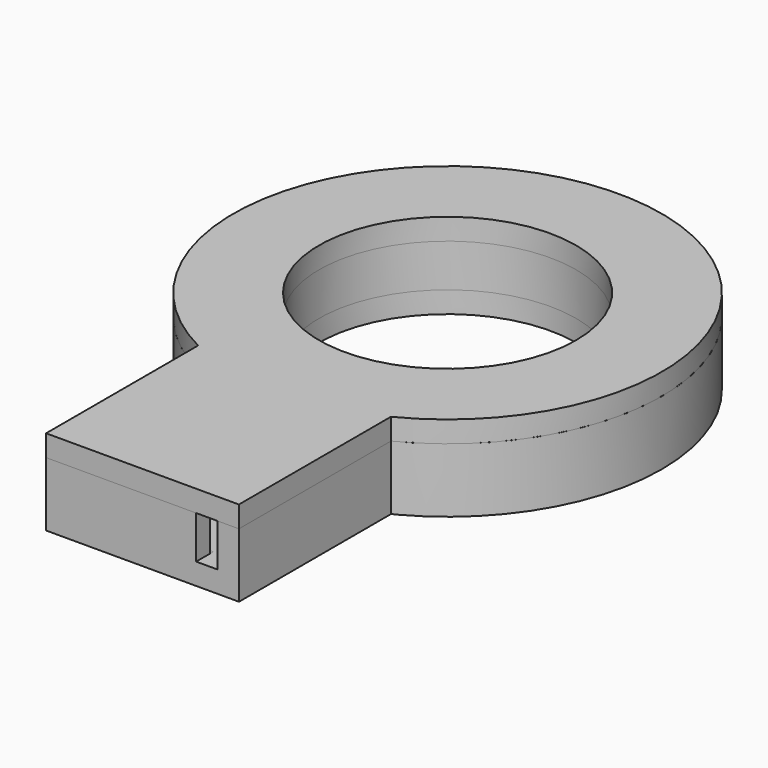
from build123d import *

# Parameters (mm, degrees)
SKETCH_R             = 20
PAD_DEPTH            = 30
SKETCH001_R          = 18
POCKET_DEPTH         = 40
SKETCH002_W          = 40
SKETCH002_H          = 26
POCKET001_DEPTH      = 20.001
POCKET001_DEPTH_BACK = 20.001
SKETCH014_W          = 14
SKETCH014_H          = 7.569522
POCKET010_DEPTH      = 6
SKETCH005_R          = 13
PAD002_DEPTH         = 30
SKETCH006_W          = 40
SKETCH006_H          = 26
POCKET003_DEPTH      = 13.001
POCKET003_DEPTH_BACK = 13.001
SKETCH007_R          = 12
POCKET004_DEPTH      = 6.001
SKETCH003_R          = 18
PAD001_DEPTH         = 30
SKETCH004_W          = 40
SKETCH004_H          = 30
POCKET002_DEPTH      = 18.001
POCKET002_DEPTH_BACK = 18.001
SKETCH008_R          = 12
POCKET005_DEPTH      = 2.001
SKETCH009_W          = 18
SKETCH009_H          = 20
PAD003_DEPTH         = 9
SKETCH010_W          = 14
SKETCH010_H          = 17
POCKET006_DEPTH      = 7
SKETCH011_W          = 40
SKETCH011_H          = 26
POCKET007_DEPTH      = 21
SKETCH012_W          = 14
SKETCH012_H          = 7.424547
POCKET008_DEPTH      = 19
SKETCH013_R          = 18
POCKET009_DEPTH      = 7
SKETCH021_W          = 2
SKETCH021_H          = 8
POCKET015_DEPTH      = 5
SKETCH015_W          = 40
SKETCH015_H          = 26
PAD004_DEPTH         = 36
SKETCH016_W          = 40
SKETCH016_H          = 26
POCKET011_DEPTH      = 36
SKETCH017_R          = 12
POCKET012_DEPTH      = 8.001
POCKET013_DEPTH      = 25
SKETCH019_W          = 20
SKETCH019_H          = 5
POCKET014_DEPTH      = 15
PAD005_DEPTH         = 1.5


with BuildPart() as base_cylinder_external:
    # Sketch → Pad (new body)
    with BuildSketch(Plane.XY):
        Circle(SKETCH_R)
    extrude(amount=PAD_DEPTH)

    # Sketch001 → Pocket (cut)
    with BuildSketch(Plane.XY):
        Circle(SKETCH001_R)
    extrude(amount=POCKET_DEPTH, mode=Mode.SUBTRACT)

    # Sketch002 → Pocket001 (cut, two sides)
    with BuildSketch(Plane.XZ) as pocket001_sk:
        with Locations((0, 19)):
            Rectangle(SKETCH002_W, SKETCH002_H)
    extrude(amount=-POCKET001_DEPTH, mode=Mode.SUBTRACT)
    extrude(pocket001_sk.sketch, amount=POCKET001_DEPTH_BACK, mode=Mode.SUBTRACT)

    # Sketch014 → Pocket010 (cut)
    with BuildSketch(Plane.XZ.offset(22)):
        with Locations((0, 5.784761)):
            Rectangle(SKETCH014_W, SKETCH014_H)
    extrude(amount=-POCKET010_DEPTH, mode=Mode.SUBTRACT)


with BuildPart() as base_cylinder_internal:
    # Sketch005 → Pad002 (new body)
    with BuildSketch(Plane.XY):
        Circle(SKETCH005_R)
    extrude(amount=PAD002_DEPTH)

    # Sketch006 → Pocket003 (cut, two sides)
    with BuildSketch(Plane.XZ) as pocket003_sk:
        with Locations((0, 19)):
            Rectangle(SKETCH006_W, SKETCH006_H)
    extrude(amount=-POCKET003_DEPTH, mode=Mode.SUBTRACT)
    extrude(pocket003_sk.sketch, amount=POCKET003_DEPTH_BACK, mode=Mode.SUBTRACT)

    # Sketch007 → Pocket004 (cut, through all)
    with BuildSketch(Plane.XY):
        Circle(SKETCH007_R)
    extrude(amount=POCKET004_DEPTH, mode=Mode.SUBTRACT)


with BuildPart() as base_cylinder_intermediate:
    # Sketch003 → Pad001 (new body)
    with BuildSketch(Plane.XY):
        Circle(SKETCH003_R)
    extrude(amount=PAD001_DEPTH)

    # Sketch004 → Pocket002 (cut, two sides)
    with BuildSketch(Plane.XZ) as pocket002_sk:
        with Locations((0, 17)):
            Rectangle(SKETCH004_W, SKETCH004_H)
    extrude(amount=-POCKET002_DEPTH, mode=Mode.SUBTRACT)
    extrude(pocket002_sk.sketch, amount=POCKET002_DEPTH_BACK, mode=Mode.SUBTRACT)

    # Sketch008 → Pocket005 (cut, through all)
    with BuildSketch(Plane.XY):
        Circle(SKETCH008_R)
    extrude(amount=POCKET005_DEPTH, mode=Mode.SUBTRACT)


with BuildPart() as base_box:
    # Sketch009 → Pad003 (new body)
    with BuildSketch(Plane.XY):
        with Locations((0, -25.588457)):
            Rectangle(SKETCH009_W, SKETCH009_H)
    extrude(amount=PAD003_DEPTH)

    # Sketch010 → Pocket006 (cut)
    with BuildSketch(Plane.XY.offset(2)):
        with Locations((0, -25.083124)):
            Rectangle(SKETCH010_W, SKETCH010_H)
    extrude(amount=POCKET006_DEPTH, mode=Mode.SUBTRACT)

    # Sketch011 → Pocket007 (cut)
    with BuildSketch(Plane.XZ.offset(15)):
        with Locations((0, 19)):
            Rectangle(SKETCH011_W, SKETCH011_H)
    extrude(amount=POCKET007_DEPTH, mode=Mode.SUBTRACT)

    # Sketch012 → Pocket008 (cut)
    with BuildSketch(Plane.XZ.offset(15)):
        with Locations((0, 5.712274)):
            Rectangle(SKETCH012_W, SKETCH012_H)
    extrude(amount=POCKET008_DEPTH, mode=Mode.SUBTRACT)

    # Sketch013 → Pocket009 (cut)
    with BuildSketch(Plane.XY.offset(9)):
        Circle(SKETCH013_R)
    extrude(amount=-POCKET009_DEPTH, mode=Mode.SUBTRACT)

    # Sketch021 → Pocket015 (cut)
    with BuildSketch(Plane.XZ.offset(37)):
        with Locations((6, 6)):
            Rectangle(SKETCH021_W, SKETCH021_H)
    extrude(amount=-POCKET015_DEPTH, mode=Mode.SUBTRACT)


with BuildPart() as top:
    # Sketch015 → Pad004 (new body, symmetric)
    with BuildSketch(Plane.XZ):
        with Locations((0, 19)):
            Rectangle(SKETCH015_W, SKETCH015_H)
    extrude(amount=PAD004_DEPTH, both=True)

    # Sketch016 → Pocket011 (cut, symmetric)
    with BuildSketch(Plane.XZ):
        with Locations((0, 21)):
            Rectangle(SKETCH016_W, SKETCH016_H)
    extrude(amount=POCKET011_DEPTH, both=True, mode=Mode.SUBTRACT)

    # Sketch017 → Pocket012 (cut, through all)
    with BuildSketch(Plane.XY):
        Circle(SKETCH017_R)
    extrude(amount=POCKET012_DEPTH, mode=Mode.SUBTRACT)

    # Sketch018 → Pocket013 (cut)
    with BuildSketch(Plane.XY):
        with BuildLine():
            Line((9, -38.955163), (9, -17.860571))
            ThreePointArc((9, -17.860571), (0, 20), (-9, -17.860571))
            Line((-9, -38.955163), (-9, -17.860571))
            Line((-9, -38.955163), (-27, -38.955163))
            Line((-27, -38.955163), (-27, 41.044837))
            Line((-27, 41.044837), (27, 41.044837))
            Line((27, 41.044837), (27, -38.955163))
            Line((27, -38.955163), (9, -38.955163))
        make_face()
    extrude(amount=POCKET013_DEPTH, mode=Mode.SUBTRACT)

    # Sketch019 → Pocket014 (cut)
    with BuildSketch(Plane.XY):
        with Locations((0, -38.1)):
            Rectangle(SKETCH019_W, SKETCH019_H)
    extrude(amount=POCKET014_DEPTH, mode=Mode.SUBTRACT)

    # Sketch020 → Pad005 (join)
    with BuildSketch(Plane.XY.offset(7)):
        Polygon((-6.8, -20.975668), (-6.8, -33.5), (6.8, -33.5), (6.8, -20.975668), (5.8, -20.975668), (5.8, -32.5), (-5.8, -32.5), (-5.8, -20.975668), align=None)
    extrude(amount=-PAD005_DEPTH)


solid = Compound([base_cylinder_external.part, base_cylinder_internal.part, base_cylinder_intermediate.part, base_box.part, top.part])
